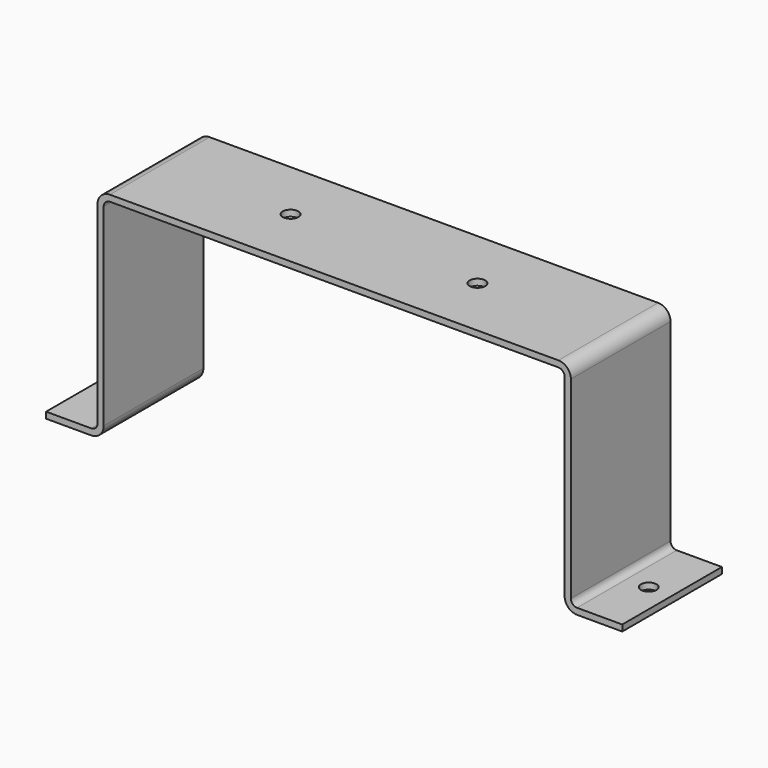
from build123d import *

# Parameters (mm, degrees)
F1_DEPTH = 20
F2_R     = 2.5
F3_DEPTH = 2.001
F4_R     = 2.5
F5_DEPTH = 25


with BuildPart() as f1:
    # F0 (on Front) → F1 (new body, symmetric)
    with BuildSketch(Plane.XZ):
        with BuildLine():
            Line((-92.5, 2), (-92.5, 0))
            Line((-92.5, 0), (-78, 0))
            ThreePointArc((-78, 0), (-75.171573, 1.171573), (-74, 4))
            Line((-74, 4), (-74, 66))
            ThreePointArc((-74, 66), (-73.414214, 67.414214), (-72, 68))
            Line((-72, 68), (0, 68))
            Line((0, 68), (72, 68))
            ThreePointArc((72, 68), (73.414214, 67.414214), (74, 66))
            Line((74, 66), (74, 4))
            ThreePointArc((74, 4), (75.171573, 1.171573), (78, 0))
            Line((78, 0), (92.5, 0))
            Line((92.5, 0), (92.5, 2))
            Line((92.5, 2), (78, 2))
            ThreePointArc((78, 2), (76.585786, 2.585786), (76, 4))
            Line((76, 4), (76, 66))
            ThreePointArc((76, 66), (74.828427, 68.828427), (72, 70))
            Line((72, 70), (0, 70))
            Line((0, 70), (-72, 70))
            ThreePointArc((-72, 70), (-74.828427, 68.828427), (-76, 66))
            Line((-76, 66), (-76, 4))
            ThreePointArc((-76, 4), (-76.585786, 2.585786), (-78, 2))
            Line((-78, 2), (-92.5, 2))
        make_face()
    extrude(amount=F1_DEPTH, both=True)

    # F2 (on face) → F3 (cut, through all)
    with BuildSketch(Plane.XY.offset(2)):
        with Locations((-85, 0)):
            Circle(F2_R)
        with Locations((85, 0)):
            Circle(F2_R)
    extrude(amount=-F3_DEPTH, mode=Mode.SUBTRACT)

    # F4 (on face) → F5 (cut)
    with BuildSketch(Plane.XY.offset(70)):
        with Locations((-30, 0)):
            Circle(F4_R)
        with Locations((30, 0)):
            Circle(F4_R)
    extrude(amount=-F5_DEPTH, mode=Mode.SUBTRACT)


solid = f1.part
